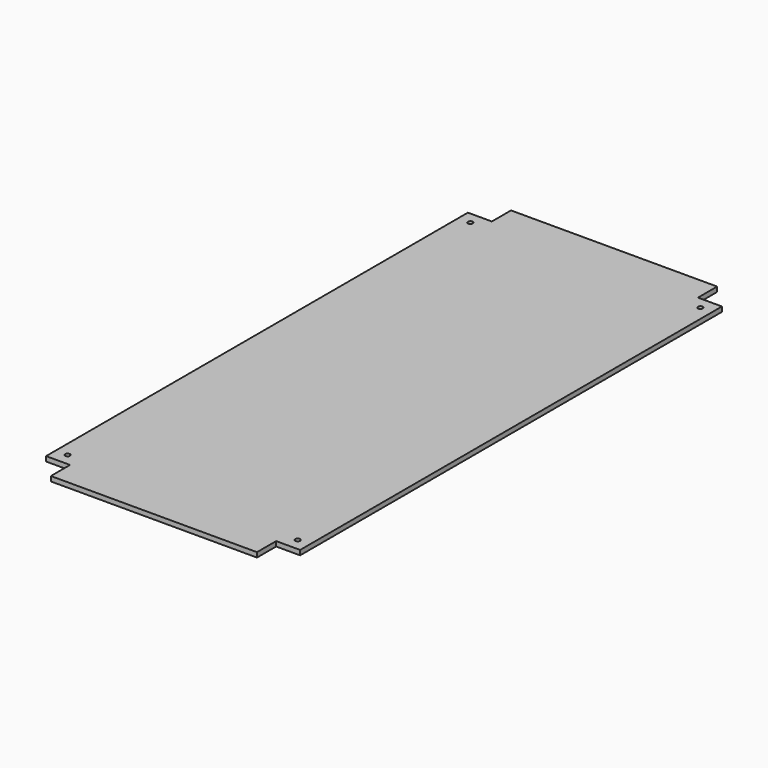
from build123d import *

# Parameters (mm, degrees)
F1_DEPTH = 5
F3_D     = 5


with BuildPart() as f1:
    # F0 (on Top) → F1 (new body)
    with BuildSketch(Plane.XY):
        Polygon((107.5, 275), (107.5, 300), (-107.5, 300), (-107.5, 275), (-132.5, 275), (-132.5, -275), (-107.5, -275), (-107.5, -300), (107.5, -300), (107.5, -275), (132.5, -275), (132.5, 275), align=None)
    extrude(amount=F1_DEPTH)

    # F3 (through all)
    with Locations(Plane.XY.offset(5)):
        with Locations((-120, 262.5), (120, 262.5), (-120, -262.5), (120, -262.5)):
            Hole(F3_D / 2)


solid = f1.part
